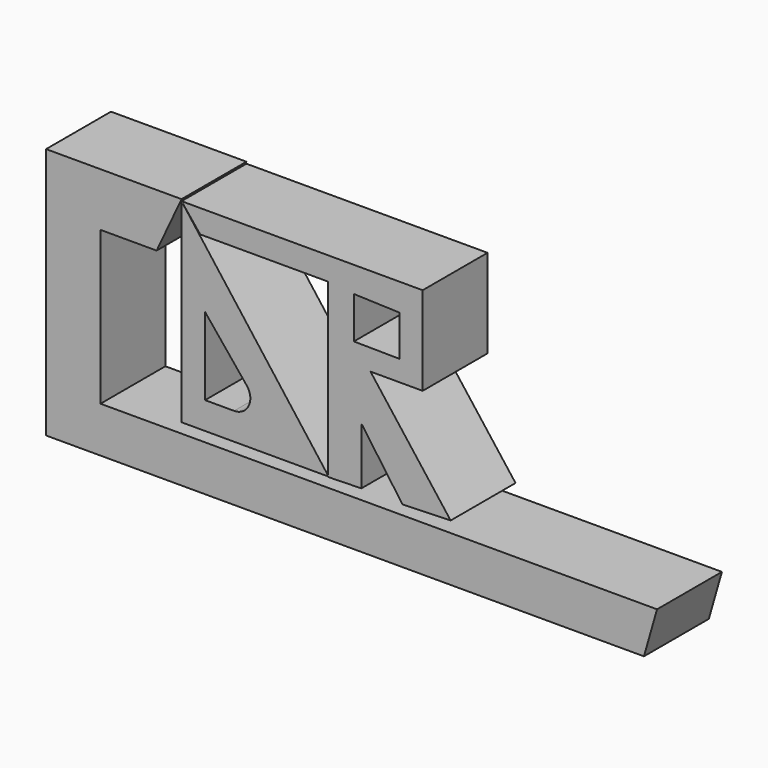
from build123d import *

# Parameters (mm, degrees)
F3_DEPTH = 25.4
F4_DEPTH = 25.4
F5_DEPTH = 25.4
F6_R     = 5.08


with BuildPart() as f3:
    # F0 (on Front) → F3 (new body)
    with BuildSketch(Plane.XZ):
        Polygon((-7.808386, 26.825462), (0, 43.550406), (-27.999483, 43.550406), (-42.430881, 43.550406), (-42.430881, -15.979119), (-42.430881, -35.421416), (-8.757614, -35.421416), (38.21101, -35.421416), (92.245594, -35.421416), (144.827515, -35.421416), (148.93125, -21.11293), (0, -21.11293), (-14.712937, -21.11293), (-25.38706, -21.11293), (-25.38706, 26.825462), align=None)
    extrude(amount=F3_DEPTH)


with BuildPart() as f4:
    # F1 (on Front) → F4 (new body)
    with BuildSketch(Plane.XZ):
        Polygon((46.090808, -17.981157), (0, 42.963523), (0, -17.981157), align=None)
        Polygon((7.360607, -9.477388), (7.360607, 14.859715), (27.143788, -9.477388), align=None, mode=Mode.SUBTRACT)
    extrude(amount=F4_DEPTH)

    # F2 (on Front) → F5 (join)
    with BuildSketch(Plane.XZ):
        Polygon((45.936029, 31.041037), (45.936029, -18.133938), (56.322422, -17.889425), (56.322422, 0), (69.206849, -18.133938), (84.287159, -17.641924), (59.169777, 15.247826), (75.517356, 15.247826), (75.517356, 19.100886), (75.517356, 42.991243), (0, 42.991243), (5.832698, 35.730619), (45.936029, 35.730619), align=None)
        Polygon((53.972501, 21.863677), (53.972501, 34.952052), (68.323299, 34.457304), (68.323299, 21.710936), align=None, mode=Mode.SUBTRACT)
    extrude(amount=F5_DEPTH)

    # F6
    f6_edges = [f4.edges().sort_by_distance(p)[0] for p in [
        (27.143788, -12.7, -9.477388),
    ]]
    fillet(f6_edges, radius=F6_R)


solid = Compound([f3.part, f4.part])
